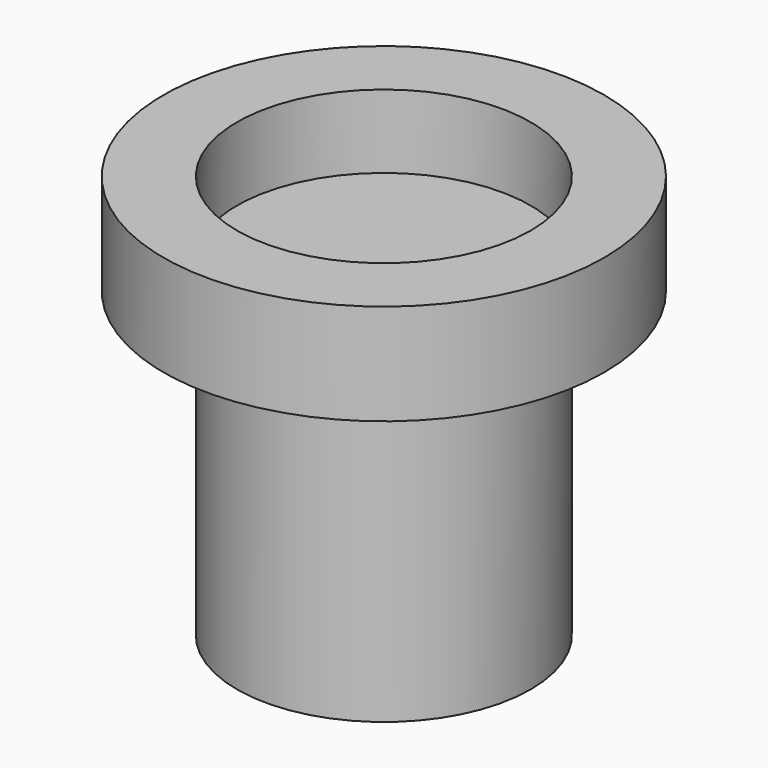
from build123d import *


with BuildPart() as f1:
    # F0 (on Front) → F1 (revolve)
    with BuildSketch(Plane.XZ):
        Polygon((0, 8), (0, 0), (4, 0), (4, 8.25), (4, 9), (0, 9), align=None)
        Polygon((4, 9), (4, 8.25), (6, 8.25), (6, 11), (4, 11), align=None)
    revolve(axis=Axis((0, 0, 4), (0, 0, 1)))


solid = f1.part
